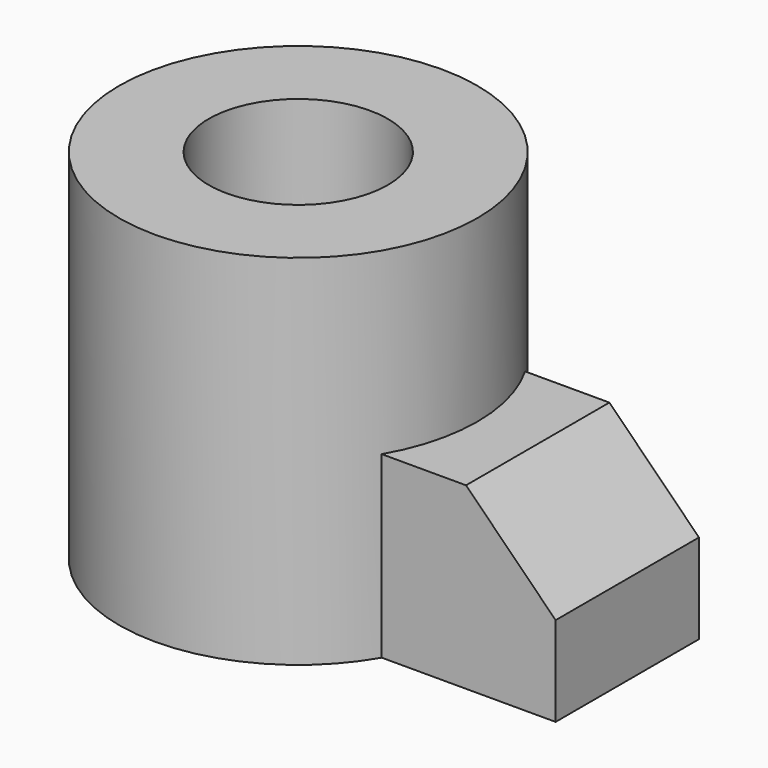
from build123d import *

# Parameters (mm, degrees)
F0_R     = 12.7
F0_R_2   = 6.35
F1_DEPTH = 25.4
F2_W     = 12.7
F2_H     = 12.7
F3_DEPTH = 6.35
F4_SIZE  = 6.35


with BuildPart() as f1:
    # F0 (on Top) → F1 (new body)
    with BuildSketch(Plane.XY):
        Circle(F0_R)
        Circle(F0_R_2, mode=Mode.SUBTRACT)
    extrude(amount=F1_DEPTH)

    # F2 (on Front) → F3 (join, symmetric)
    with BuildSketch(Plane.XZ):
        with Locations((16.972898, 6.35)):
            Rectangle(F2_W, F2_H)
    extrude(amount=F3_DEPTH, both=True)

    # F4
    f4_edges = [f1.edges().sort_by_distance(p)[0] for p in [
        (23.322898, 0, 12.7),
    ]]
    chamfer(f4_edges, length=F4_SIZE)


solid = f1.part
